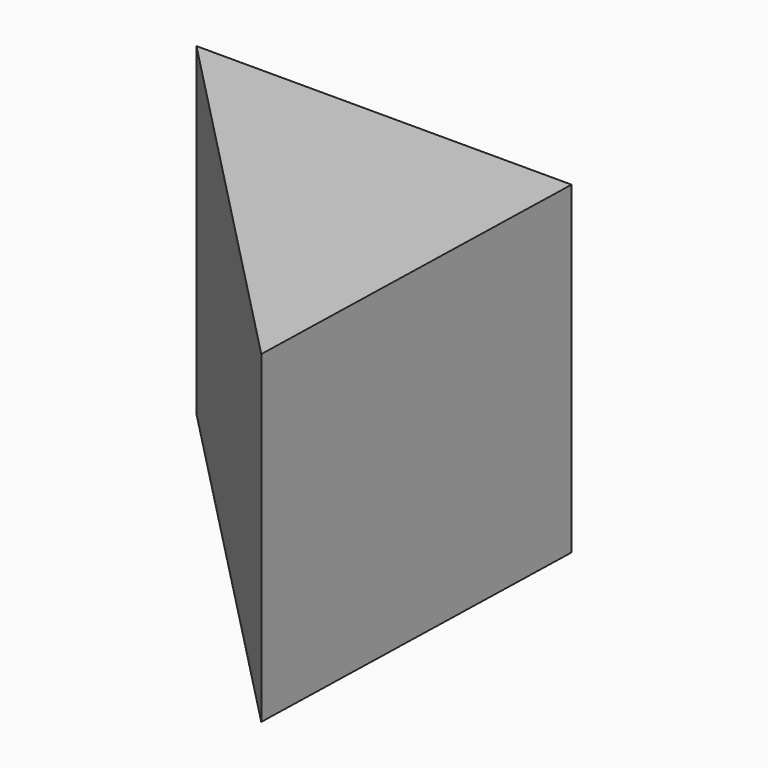
from build123d import *

# Parameters (mm, degrees)
F2_DEPTH = 70.913181


with BuildPart() as f2:
    # F1 (on face) → F2 (new body)
    with BuildSketch(Plane.XY):
        Polygon((48.627049, -41.804425), (50.855327, 40.337816), (-31.281166, 40.337816), align=None)
    extrude(amount=-F2_DEPTH)


solid = f2.part
